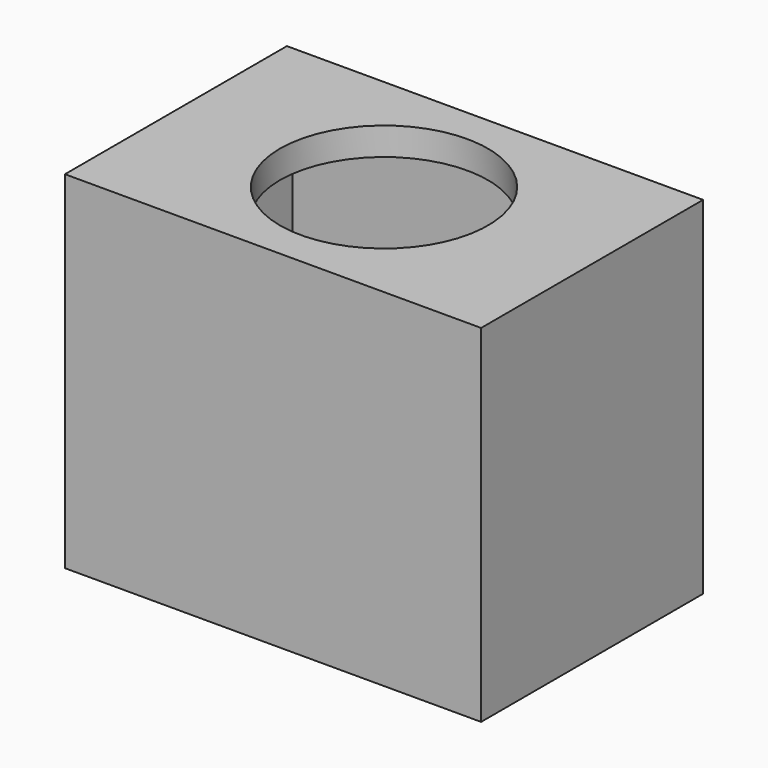
from build123d import *

# Parameters (mm, degrees)
F0_W     = 300
F0_H     = 200
F1_DEPTH = 250
F3_T     = -20
F4_D     = 150


with BuildPart() as f1:
    # F0 (on Top) → F1 (new body)
    with BuildSketch(Plane.XY):
        Rectangle(F0_W, F0_H)
    extrude(amount=F1_DEPTH)

    # F3
    f3_openings = [f1.faces().sort_by_distance(p)[0] for p in [
        (0, 0, 0),
    ]]
    offset(amount=F3_T, openings=f3_openings)

    # F4 (through all)
    with Locations(Plane.XY.offset(250)):
        with Locations((0, 0)):
            Hole(F4_D / 2)


solid = f1.part
